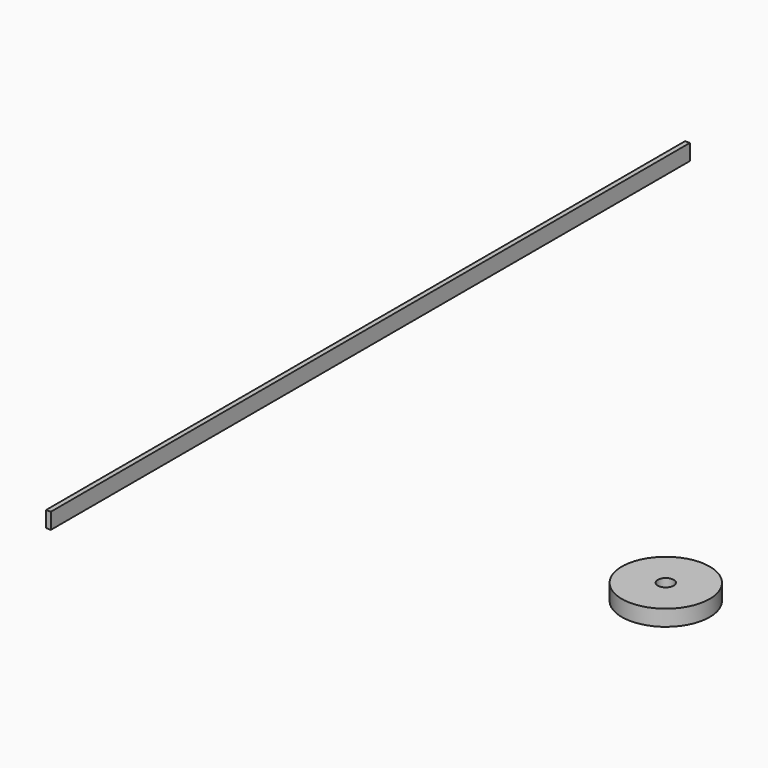
from build123d import *

# Parameters (mm, degrees)
F0_R     = 2.75
F0_R_2   = 0.5
F0_W     = 0.3
F0_H     = 50
F1_DEPTH = 1


with BuildPart() as f1:
    # F0 (on Top) → F1 (new body)
    with BuildSketch(Plane.XY):
        Circle(F0_R)
        Circle(F0_R_2, mode=Mode.SUBTRACT)
        with Locations((-28.318391, 12.092679)):
            Rectangle(F0_W, F0_H)
    extrude(amount=F1_DEPTH)


solid = f1.part
